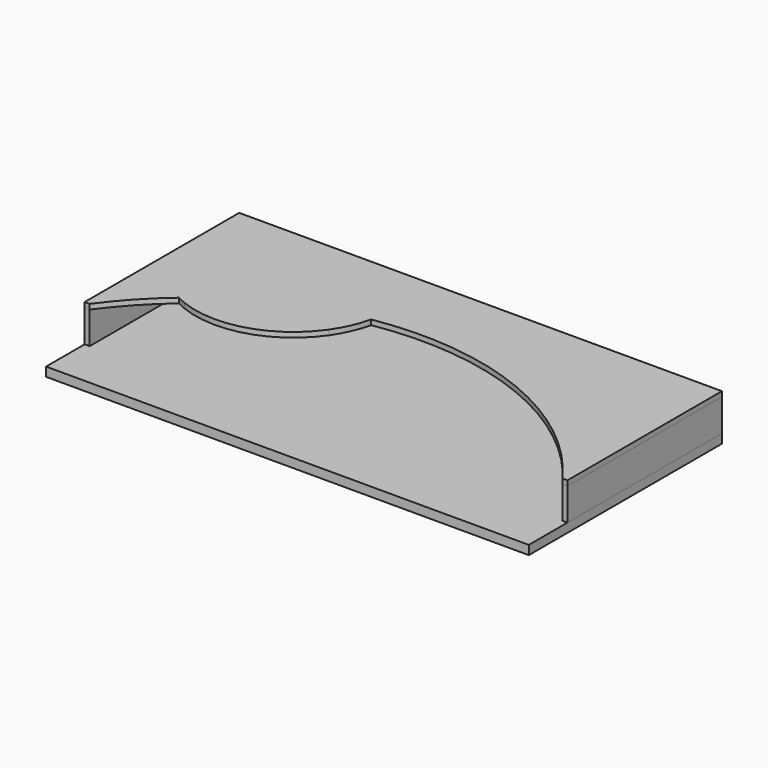
from build123d import *

# Parameters (mm, degrees)
F0_W     = 1524
F0_H     = 762
F1_DEPTH = 28.575
F2_W     = 1492.25
F2_H     = 15.875
F3_DEPTH = 101.6
F5_DEPTH = 15.875
F7_DEPTH = 15.875


with BuildPart() as f1:
    # F0 (on Top) → F1 (new body)
    with BuildSketch(Plane.XY):
        Rectangle(F0_W, F0_H)
    extrude(amount=-F1_DEPTH)


with BuildPart() as f3:
    # F2 (on face) → F3 (new body)
    with BuildSketch(Plane.XY):
        Polygon((-746.125, 381), (-762, 381), (-762, -228.6), (-746.125, -228.6), (-746.125, 365.125), align=None)
        with Locations((0, 373.0625)):
            Rectangle(F2_W, F2_H)
        Polygon((762, 381), (746.125, 381), (746.125, 365.125), (746.125, -228.6), (762, -228.6), align=None)
    extrude(amount=F3_DEPTH)


with BuildPart() as f5:
    # F4 (on face) → F5 (new body)
    with BuildSketch(Plane.XY.offset(101.6)):
        with BuildLine():
            ThreePointArc((-746.125, -228.6), (0, 152.4), (746.125, -228.6))
            Line((746.125, -228.6), (746.125, 365.125))
            Line((746.125, 365.125), (-746.125, 365.125))
            Line((-746.125, 365.125), (-746.125, -228.6))
        make_face()
        Polygon((746.125, 365.125), (746.125, -228.6), (762, -228.6), (762, 381), (-762, 381), (-762, -228.6), (-746.125, -228.6), (-746.125, 365.125), align=None)
    extrude(amount=F5_DEPTH)

    # F6 (on face) → F7 (join, through all)
    with BuildSketch(Plane.XY.offset(117.475)):
        with BuildLine():
            Line((-567.4328792848, -78.1248988452), (-578.9371297689, -52.2859292015))
            ThreePointArc((-578.9371297689, -52.2859292015), (-587.0006306772, -58.8779613313), (-594.9890778051, -65.5607486976))
            ThreePointArc((-594.9890778051, -65.5607486976), (-581.3651457464, -72.180949467), (-567.4328792848, -78.1248988452))
        make_face()
        with BuildLine():
            Line((-199.7034395213, 32.6653174527), (-238.9702921956, 120.8601125546))
            ThreePointArc((-238.9702921956, 120.8601125546), (-418.0167767807, 52.0821379101), (-578.9371297689, -52.2859292015))
            Line((-578.9371297689, -52.2859292015), (-567.4328792848, -78.1248988452))
            ThreePointArc((-567.4328792848, -78.1248988452), (-475.493372553, -99.2006820611), (-381.4815066983, -91.5305702783))
            Line((-381.4815066983, -91.5305702783), (-278.2292465465, -45.5597022358))
            ThreePointArc((-278.2292465465, -45.5597022358), (-235.4267896146, -10.0003559429), (-199.7034395213, 32.6653174527))
        make_face()
        with BuildLine():
            ThreePointArc((-152.4, 139.7046238869), (-195.9118559586, 131.3238565645), (-238.9702921956, 120.8601125546))
            Line((-238.9702921956, 120.8601125546), (-199.7034395213, 32.6653174527))
            ThreePointArc((-199.7034395213, 32.6653174527), (-170.9332051828, 83.9229666188), (-152.4, 139.7046238869))
        make_face()
        with BuildLine():
            ThreePointArc((-381.4815066983, -91.5305702783), (-327.733588399, -73.3107506333), (-278.2292465465, -45.5597022358))
            Line((-278.2292465465, -45.5597022358), (-381.4815066983, -91.5305702783))
        make_face()
    extrude(amount=-F7_DEPTH)


solid = Compound([f1.part, f3.part, f5.part])
